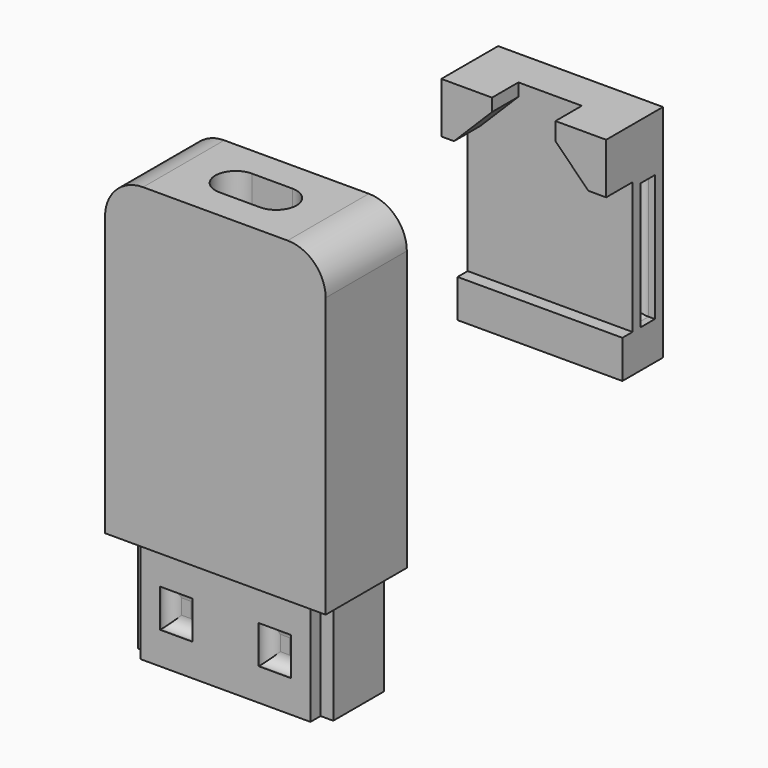
from build123d import *

# Parameters (mm, degrees)
SKETCH_R        = 1.6
PAD_DEPTH       = 8.5
SKETCH001_W     = 2.54
SKETCH001_H     = 3
POCKET_DEPTH    = 1
FILLET_R        = 0.9
SKETCH002_W     = 17.4
SKETCH002_H     = 8
SKETCH002_R     = 1.6
PAD001_DEPTH    = 3.5
PAD002_DEPTH    = 10
PAD003_DEPTH    = 8
SKETCH005_W     = 17.4
SKETCH005_H     = 8
PAD004_DEPTH    = 3.5
CHAMFER_SIZE    = 1.5
CHAMFER001_SIZE = 1.5
FILLET001_R     = 3
FILLET002_R     = 3
SKETCH010_W     = 1.4
SKETCH010_H     = 8
PAD008_DEPTH    = 0.8
FILLET005_R     = 0.6
FILLET006_R     = 0.6
FILLET007_R     = 0.6
FILLET008_R     = 0.6
SKETCH006_W     = 13
SKETCH006_H     = 17.4
PAD005_DEPTH    = 3
SKETCH007_W     = 4
SKETCH007_H     = 4
PAD006_DEPTH    = 2.6
CHAMFER002_SIZE = 3
CHAMFER003_SIZE = 2.6
SKETCH008_W     = 13
SKETCH008_H     = 3
PAD007_DEPTH    = 1
SKETCH009_W     = 10
SKETCH009_H     = 1.4
POCKET001_DEPTH = 1
FILLET003_R     = 0.5
FILLET004_R     = 0.5


with BuildPart() as obj1:
    # Sketch → Pad (new body)
    with BuildSketch(Plane.XY):
        Polygon((-7.7, 3), (7.7, 3), (7.7, -2), (6.7, -2), (6.7, -3), (-6.7, -3), (-6.7, -2), (-7.7, -2), align=None)
        Circle(SKETCH_R, mode=Mode.SUBTRACT)
        with Locations((-5, 0)):
            Circle(SKETCH_R, mode=Mode.SUBTRACT)
        with Locations((5, 0)):
            Circle(SKETCH_R, mode=Mode.SUBTRACT)
    extrude(amount=PAD_DEPTH)

    # Sketch001 (on Face1 of Pad) → Pocket (cut)
    with BuildSketch(Plane(origin=(0, 3, 0), x_dir=(-1, 0, 0), z_dir=(0, 1, 0))):
        with Locations((-3.89, 4.04)):
            Rectangle(SKETCH001_W, SKETCH001_H)
        with Locations((3.89, 4.04)):
            Rectangle(SKETCH001_W, SKETCH001_H)
    pocket = extrude(amount=-POCKET_DEPTH, mode=Mode.SUBTRACT)

    # Mirrored: Pocket across XZ
    add(pocket.mirror(Plane.XZ), mode=Mode.SUBTRACT)

    # Fillet
    fillet_edges = [obj1.edges().sort_by_distance(p)[0] for p in [
        (-3.89, -2, 5.54),
        (-5.16, -2, 4.04),
        (-3.89, -2, 2.54),
        (-2.62, -2, 4.04),
        (3.89, -2, 5.54),
        (2.62, -2, 4.04),
        (3.89, -2, 2.54),
        (5.16, -2, 4.04),
        (3.89, 2, 5.54),
        (2.62, 2, 4.04),
        (3.89, 2, 2.54),
        (5.16, 2, 4.04),
        (-3.89, 2, 5.54),
        (-5.16, 2, 4.04),
        (-3.89, 2, 2.54),
        (-2.62, 2, 4.04),
    ]]
    fillet(fillet_edges, radius=FILLET_R)

    # Sketch002 (on Face12 of Fillet) → Pad001 (join)
    with BuildSketch(Plane.XY.offset(8.5)):
        Rectangle(SKETCH002_W, SKETCH002_H)
        Circle(SKETCH002_R, mode=Mode.SUBTRACT)
        with Locations((-5, 0)):
            Circle(SKETCH002_R, mode=Mode.SUBTRACT)
        with Locations((5, 0)):
            Circle(SKETCH002_R, mode=Mode.SUBTRACT)
    extrude(amount=PAD001_DEPTH)

    # Sketch003 (on Face46 of Pad001) → Pad002 (join)
    with BuildSketch(Plane.XY.offset(12)):
        Polygon((-8.7, 4), (-8.7, -4), (8.7, -4), (8.7, 4), (6.8, 4), (6.8, -1.6), (3.2, -1.6), (3.2, 0), (1.8, 0), (1.8, -1.6), (-1.8, -1.6), (-1.8, 0), (-3.2, 0), (-3.2, -1.6), (-6.8, -1.6), (-6.8, 4), align=None)
    extrude(amount=PAD002_DEPTH)

    # Sketch004 (on Face62 of Pad002) → Pad003 (join)
    with BuildSketch(Plane.XY.offset(22)):
        Polygon((-8.7, 4), (-8.7, -4), (8.7, -4), (8.7, 4), (6.8, 4), (6.8, -1.6), (-6.8, -1.6), (-6.8, 4), align=None)
    extrude(amount=PAD003_DEPTH)

    # Sketch005 (on Face80 of Pad003) → Pad004 (join)
    with BuildSketch(Plane.XY.offset(30)):
        Rectangle(SKETCH005_W, SKETCH005_H)
        with BuildLine():
            ThreePointArc((-1.6, 1.6), (-3.2, 0), (-1.6, -1.6))
            Line((-1.6, -1.6), (1.6, -1.6))
            ThreePointArc((1.6, -1.6), (3.2, 0), (1.6, 1.6))
            Line((1.6, 1.6), (-1.6, 1.6))
        make_face(mode=Mode.SUBTRACT)
    extrude(amount=PAD004_DEPTH)

    # Chamfer
    chamfer_edges = [obj1.edges().sort_by_distance(p)[0] for p in [
        (-2.5, 0, 22),
    ]]
    chamfer(chamfer_edges, length=CHAMFER_SIZE)

    # Chamfer001
    chamfer001_edges = [obj1.edges().sort_by_distance(p)[0] for p in [
        (2.5, 0, 22),
    ]]
    chamfer(chamfer001_edges, length=CHAMFER001_SIZE)

    # Fillet001
    fillet001_edges = [obj1.edges().sort_by_distance(p)[0] for p in [
        (-8.7, 0, 33.5),
    ]]
    fillet(fillet001_edges, radius=FILLET001_R)

    # Fillet002
    fillet002_edges = [obj1.edges().sort_by_distance(p)[0] for p in [
        (8.7, 0, 33.5),
    ]]
    fillet(fillet002_edges, radius=FILLET002_R)

    # Sketch010 (on Face25 of Fillet002) → Pad008 (join)
    with BuildSketch(Plane(origin=(6.8, 0, 0), x_dir=(0, -1, 0), z_dir=(-1, 0, 0))):
        with Locations((-2.5, 20)):
            Rectangle(SKETCH010_W, SKETCH010_H)
    pad008 = extrude(amount=PAD008_DEPTH)

    # Fillet005
    fillet005_edges = [obj1.edges().sort_by_distance(p)[0] for p in [
        (6, 3.2, 20),
    ]]
    fillet(fillet005_edges, radius=FILLET005_R)

    # Fillet006
    fillet006_edges = [obj1.edges().sort_by_distance(p)[0] for p in [
        (6, 1.8, 20),
    ]]
    fillet(fillet006_edges, radius=FILLET006_R)

    # Mirrored002: Pad008 across YZ
    add(pad008.mirror(Plane.YZ))

    # Fillet007
    fillet007_edges = [obj1.edges().sort_by_distance(p)[0] for p in [
        (-6, 3.2, 20),
    ]]
    fillet(fillet007_edges, radius=FILLET007_R)

    # Fillet008
    fillet008_edges = [obj1.edges().sort_by_distance(p)[0] for p in [
        (-6, 1.8, 20),
    ]]
    fillet(fillet008_edges, radius=FILLET008_R)


with BuildPart() as obj2:
    # Sketch006 → Pad005 (new body)
    with BuildSketch(Plane(origin=(0, 0, 19), x_dir=(1, 0, 0), z_dir=(0, -1, 0))):
        with Locations((0, 8.7)):
            Rectangle(SKETCH006_W, SKETCH006_H)
    extrude(amount=PAD005_DEPTH)

    # Sketch007 (on Face6 of Pad005) → Pad006 (join)
    with BuildSketch(Plane.XZ.offset(3)):
        with Locations((-4.5, 34.4)):
            Rectangle(SKETCH007_W, SKETCH007_H)
        with Locations((4.5, 34.4)):
            Rectangle(SKETCH007_W, SKETCH007_H)
    extrude(amount=PAD006_DEPTH)

    # Chamfer002
    chamfer002_edges = [obj2.edges().sort_by_distance(p)[0] for p in [
        (-2.5, -4.3, 32.4),
    ]]
    chamfer(chamfer002_edges, length=CHAMFER002_SIZE)

    # Chamfer003
    chamfer003_edges = [obj2.edges().sort_by_distance(p)[0] for p in [
        (2.5, -4.3, 32.4),
    ]]
    chamfer(chamfer003_edges, length=CHAMFER003_SIZE)

    # Sketch008 (on Face1 of Chamfer003) → Pad007 (join)
    with BuildSketch(Plane.XZ.offset(3)):
        with Locations((0, 20.5)):
            Rectangle(SKETCH008_W, SKETCH008_H)
    extrude(amount=PAD007_DEPTH)

    # Sketch009 (on Face9 of Pad007) → Pocket001 (cut)
    with BuildSketch(Plane(origin=(6.5, 0, 0), x_dir=(0, 0, 1), z_dir=(1, 0, 0))):
        with Locations((27, 1.5)):
            Rectangle(SKETCH009_W, SKETCH009_H)
    pocket001 = extrude(amount=-POCKET001_DEPTH, mode=Mode.SUBTRACT)

    # Mirrored001: Pocket001 across YZ
    add(pocket001.mirror(Plane.YZ), mode=Mode.SUBTRACT)

    # Fillet003
    fillet003_edges = [obj2.edges().sort_by_distance(p)[0] for p in [
        (5.5, -2.2, 27),
        (5.5, -1.5, 32),
        (5.5, -0.8, 27),
        (5.5, -1.5, 22),
    ]]
    fillet(fillet003_edges, radius=FILLET003_R)

    # Fillet004
    fillet004_edges = [obj2.edges().sort_by_distance(p)[0] for p in [
        (-5.5, -2.2, 27),
        (-5.5, -1.5, 32),
        (-5.5, -0.8, 27),
        (-5.5, -1.5, 22),
    ]]
    fillet(fillet004_edges, radius=FILLET004_R)


with BuildPart() as obj2_1:
    # Body001 placement: moved
    add(obj2.part.moved(Location((0, 32, -8))))


solid = Compound([obj1.part, obj2_1.part])
